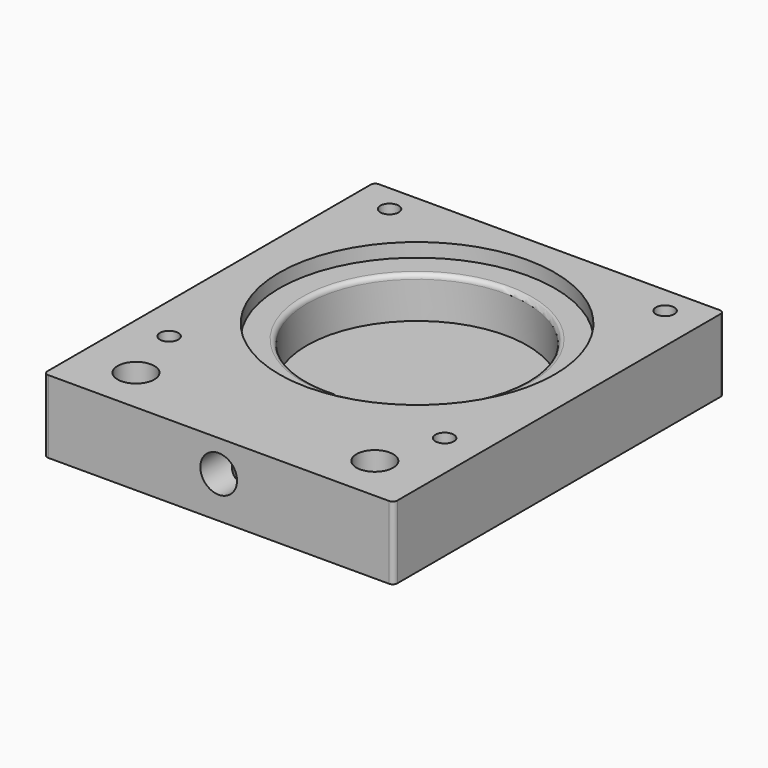
from build123d import *

# Parameters (mm, degrees)
F0_W      = 76.2
F0_H      = 90
F1_DEPTH  = 15.875
F2_R      = 24
F3_DEPTH  = 12
F4_R      = 30
F4_R_2    = 24
F5_DEPTH  = 3
F6_R      = 4
F7_DEPTH  = 10
F8_R      = 4
F9_DEPTH  = 9
F12_R     = 2
F13_DEPTH = 50
F14_R     = 1
F15_R     = 2
F15_R_2   = 4
F16_DEPTH = 16
F17_R     = 3.75
F18_DEPTH = 5


with BuildPart() as f1:
    # F0 (on Top) → F1 (new body)
    with BuildSketch(Plane.XY):
        with Locations((38.1, 45)):
            Rectangle(F0_W, F0_H)
    extrude(amount=F1_DEPTH)

    # F2 (on face) → F3 (cut)
    with BuildSketch(Plane.XY.offset(15.875)):
        with Locations((38.1, 54)):
            Circle(F2_R)
    extrude(amount=-F3_DEPTH, mode=Mode.SUBTRACT)

    # F4 (on face) → F5 (cut)
    with BuildSketch(Plane.XY.offset(15.875)):
        with Locations((38.1, 54)):
            Circle(F4_R)
        with Locations((38.1, 54)):
            Circle(F4_R_2, mode=Mode.SUBTRACT)
    extrude(amount=-F5_DEPTH, mode=Mode.SUBTRACT)

    # F6 (on face) → F7 (cut)
    with BuildSketch(Plane.XZ):
        with Locations((38.1, 9)):
            Circle(F6_R)
    extrude(amount=-F7_DEPTH, mode=Mode.SUBTRACT)

    # F8 (on face) → F9 (cut)
    with BuildSketch(Plane(origin=(0, 0, 0), x_dir=(1, 0, 0), z_dir=(0, 0, -1))):
        with Locations((38.1, -10)):
            Circle(F8_R)
    extrude(amount=-F9_DEPTH, mode=Mode.SUBTRACT)

    # F10 (on face) → F11 (revolve, cut)
    with BuildSketch(Plane.XZ.offset(-10)):
        with BuildLine():
            Line((38.1, 9), (38.1, 13))
            ThreePointArc((38.1, 13), (35.2715728753, 11.8284271247), (34.1, 9))
            Line((34.1, 9), (38.1, 9))
        make_face()
    revolve(axis=Axis((38.1, 10, 9), (0, 0, -1)), mode=Mode.SUBTRACT)

    # F12 (on face) → F13 (cut)
    with BuildSketch(Plane.XZ):
        with Locations((38.1, 9)):
            Circle(F12_R)
    extrude(amount=-F13_DEPTH, mode=Mode.SUBTRACT)

    # F14
    f14_edges = [f1.edges().sort_by_distance(p)[0] for p in [
        (14.1, 54, 12.875),
        (0, 90, 7.9375),
        (0, 0, 7.9375),
        (76.2, 90, 7.9375),
        (76.2, 0, 7.9375),
    ]]
    fillet(f14_edges, radius=F14_R)

    # F15 (on face) → F16 (cut)
    with BuildSketch(Plane.XY.offset(15.875)):
        with Locations((8.1, 84)):
            Circle(F15_R)
        with Locations((68.1, 84)):
            Circle(F15_R)
        with Locations((8.1, 24)):
            Circle(F15_R)
        with Locations((68.1, 24)):
            Circle(F15_R)
        with Locations((12.1, 10)):
            Circle(F15_R_2)
        with Locations((64.1, 10)):
            Circle(F15_R_2)
    extrude(amount=-F16_DEPTH, mode=Mode.SUBTRACT)

    # F17 (on face) → F18 (cut)
    with BuildSketch(Plane(origin=(0, 0, 0), x_dir=(1, 0, 0), z_dir=(0, 0, -1))):
        with Locations((8.1, -24)):
            Circle(F17_R)
        with Locations((68.1, -24)):
            Circle(F17_R)
        with Locations((8.1, -84)):
            Circle(F17_R)
        with Locations((68.1, -84)):
            Circle(F17_R)
    extrude(amount=-F18_DEPTH, mode=Mode.SUBTRACT)


solid = f1.part
